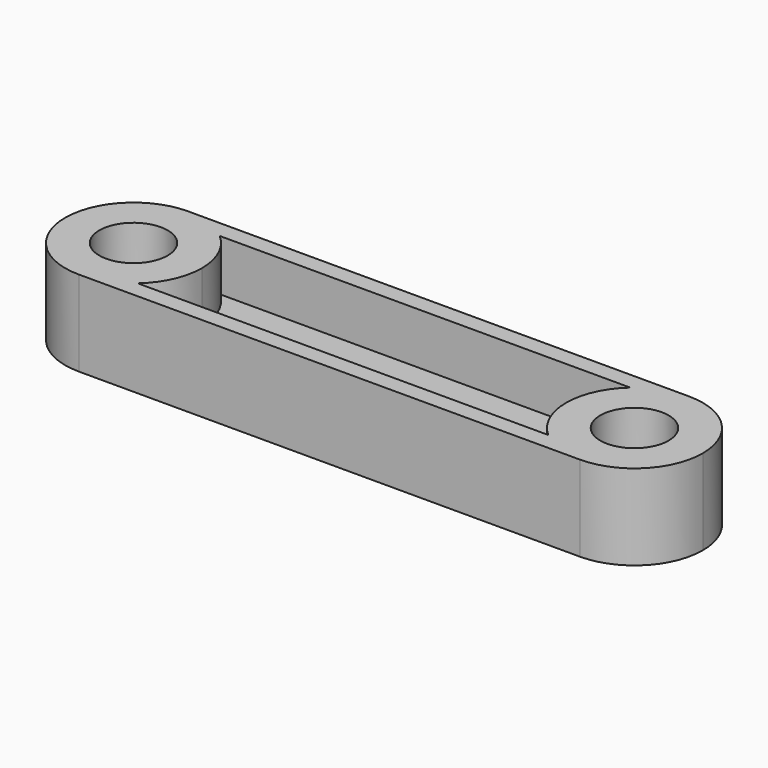
from build123d import *

# Parameters (mm, degrees)
F0_R     = 2
F1_DEPTH = 5
F2_DEPTH = 2


with BuildPart() as f1:
    # F0 (on Top) → F1 (new body)
    with BuildSketch(Plane.XY):
        with BuildLine():
            ThreePointArc((2.645751, -3), (3.645751, -1.645751), (4, 0))
            ThreePointArc((4, 0), (3.645751, 1.645751), (2.645751, 3))
            ThreePointArc((2.645751, 3), (1.414214, 3.741657), (0, 4))
            ThreePointArc((0, 4), (-4, 0), (0, -4))
            ThreePointArc((0, -4), (1.414214, -3.741657), (2.645751, -3))
        make_face()
        Circle(F0_R, mode=Mode.SUBTRACT)
        with BuildLine():
            ThreePointArc((0, 4), (1.414214, 3.741657), (2.645751, 3))
            Line((2.645751, 3), (26.664249, 3))
            ThreePointArc((26.664249, 3), (27.895786, 3.741657), (29.31, 4))
            Line((29.31, 4), (0, 4))
        make_face()
        with BuildLine():
            Line((26.664249, -3), (2.645751, -3))
            ThreePointArc((2.645751, -3), (1.414214, -3.741657), (0, -4))
            Line((0, -4), (29.31, -4))
            ThreePointArc((29.31, -4), (27.895786, -3.741657), (26.664249, -3))
        make_face()
        with BuildLine():
            ThreePointArc((29.31, 4), (27.895786, 3.741657), (26.664249, 3))
            ThreePointArc((26.664249, 3), (25.31, 0), (26.664249, -3))
            ThreePointArc((26.664249, -3), (27.895786, -3.741657), (29.31, -4))
            ThreePointArc((29.31, -4), (32.138427, -2.828427), (33.31, 0))
            ThreePointArc((33.31, 0), (32.138427, 2.828427), (29.31, 4))
        make_face()
        with Locations((29.31, 0)):
            Circle(F0_R, mode=Mode.SUBTRACT)
    extrude(amount=F1_DEPTH)

    # F0 (on Top) → F2 (join)
    with BuildSketch(Plane.XY):
        with BuildLine():
            ThreePointArc((2.645751, -3), (3.645751, -1.645751), (4, 0))
            ThreePointArc((4, 0), (3.645751, 1.645751), (2.645751, 3))
            ThreePointArc((2.645751, 3), (1.414214, 3.741657), (0, 4))
            ThreePointArc((0, 4), (-4, 0), (0, -4))
            ThreePointArc((0, -4), (1.414214, -3.741657), (2.645751, -3))
        make_face()
        Circle(F0_R, mode=Mode.SUBTRACT)
        with BuildLine():
            ThreePointArc((0, 4), (1.414214, 3.741657), (2.645751, 3))
            Line((2.645751, 3), (26.664249, 3))
            ThreePointArc((26.664249, 3), (27.895786, 3.741657), (29.31, 4))
            Line((29.31, 4), (0, 4))
        make_face()
        with BuildLine():
            Line((26.664249, -3), (2.645751, -3))
            ThreePointArc((2.645751, -3), (1.414214, -3.741657), (0, -4))
            Line((0, -4), (29.31, -4))
            ThreePointArc((29.31, -4), (27.895786, -3.741657), (26.664249, -3))
        make_face()
        with BuildLine():
            ThreePointArc((29.31, 4), (27.895786, 3.741657), (26.664249, 3))
            ThreePointArc((26.664249, 3), (25.31, 0), (26.664249, -3))
            ThreePointArc((26.664249, -3), (27.895786, -3.741657), (29.31, -4))
            ThreePointArc((29.31, -4), (32.138427, -2.828427), (33.31, 0))
            ThreePointArc((33.31, 0), (32.138427, 2.828427), (29.31, 4))
        make_face()
        with Locations((29.31, 0)):
            Circle(F0_R, mode=Mode.SUBTRACT)
        with BuildLine():
            ThreePointArc((2.645751, 3), (3.645751, 1.645751), (4, 0))
            ThreePointArc((4, 0), (3.645751, -1.645751), (2.645751, -3))
            Line((2.645751, -3), (26.664249, -3))
            ThreePointArc((26.664249, -3), (25.31, 0), (26.664249, 3))
            Line((26.664249, 3), (2.645751, 3))
        make_face()
    extrude(amount=F2_DEPTH)


solid = f1.part
